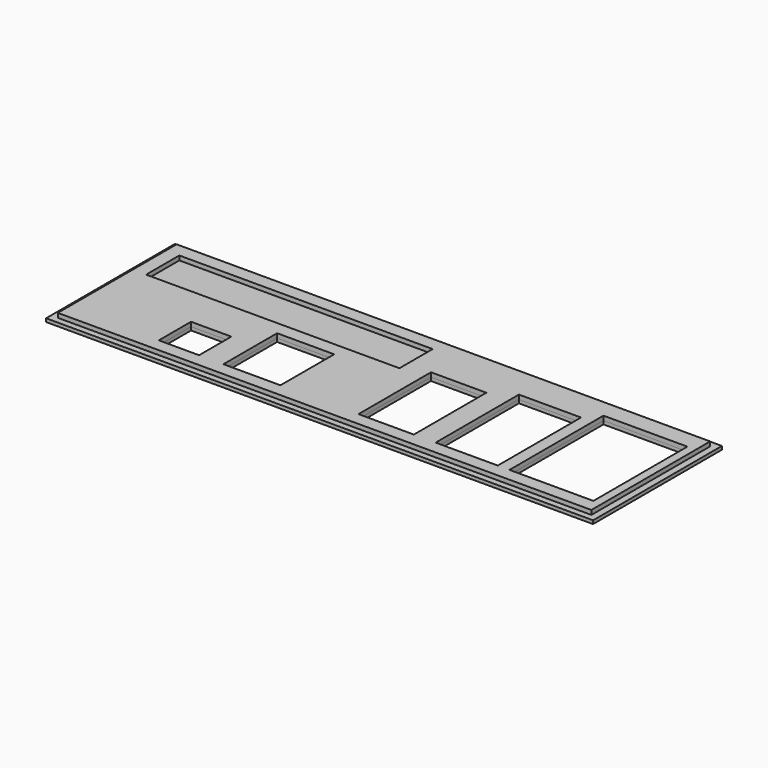
from build123d import *

# Parameters (mm, degrees)
SKETCH_W      = 159
SKETCH_H      = 44.25
SKETCH_W_2    = 25
SKETCH_H_2    = 35
SKETCH_W_3    = 18.5
SKETCH_H_3    = 31
SKETCH_W_4    = 16.5
SKETCH_H_4    = 27
SKETCH_W_5    = 17
SKETCH_H_5    = 20
SKETCH_W_6    = 12
SKETCH_H_6    = 12
SKETCH_W_7    = 75.5
SKETCH_H_7    = 12.375
PAD001_DEPTH  = 1.3
SKETCH001_W   = 163
SKETCH001_H   = 48
SKETCH001_W_2 = 25
SKETCH001_H_2 = 35
SKETCH001_W_3 = 18.5
SKETCH001_H_3 = 31
SKETCH001_W_4 = 16.5
SKETCH001_H_4 = 27
SKETCH001_W_5 = 17
SKETCH001_H_5 = 20
SKETCH001_W_6 = 12
SKETCH001_H_6 = 12
PAD_DEPTH     = 1


with BuildPart() as pad001:
    # Sketch → Pad001 (new body)
    with BuildSketch(Plane.XY.offset(1)):
        Rectangle(SKETCH_W, SKETCH_H)
        with Locations((64.5, -0.75)):
            Rectangle(SKETCH_W_2, SKETCH_H_2, mode=Mode.SUBTRACT)
        with Locations((39.25, -2.75)):
            Rectangle(SKETCH_W_3, SKETCH_H_3, mode=Mode.SUBTRACT)
        with Locations((15.25, -4.75)):
            Rectangle(SKETCH_W_4, SKETCH_H_4, mode=Mode.SUBTRACT)
        with Locations((-24.75, -8.25)):
            Rectangle(SKETCH_W_5, SKETCH_H_5, mode=Mode.SUBTRACT)
        with Locations((-46.5, -12.25)):
            Rectangle(SKETCH_W_6, SKETCH_H_6, mode=Mode.SUBTRACT)
        with Locations((-37.75, 11.9375)):
            Rectangle(SKETCH_W_7, SKETCH_H_7, mode=Mode.SUBTRACT)
    extrude(amount=PAD001_DEPTH)


with BuildPart() as pad:
    # Sketch001 → Pad (new body)
    with BuildSketch(Plane.XY):
        Rectangle(SKETCH001_W, SKETCH001_H)
        with Locations((64.5, -0.75)):
            Rectangle(SKETCH001_W_2, SKETCH001_H_2, mode=Mode.SUBTRACT)
        with Locations((39.25, -2.75)):
            Rectangle(SKETCH001_W_3, SKETCH001_H_3, mode=Mode.SUBTRACT)
        with Locations((15.25, -4.75)):
            Rectangle(SKETCH001_W_4, SKETCH001_H_4, mode=Mode.SUBTRACT)
        with Locations((-24.75, -8.25)):
            Rectangle(SKETCH001_W_5, SKETCH001_H_5, mode=Mode.SUBTRACT)
        with Locations((-46.5, -12.25)):
            Rectangle(SKETCH001_W_6, SKETCH001_H_6, mode=Mode.SUBTRACT)
    extrude(amount=PAD_DEPTH)


solid = Compound([pad001.part, pad.part])
